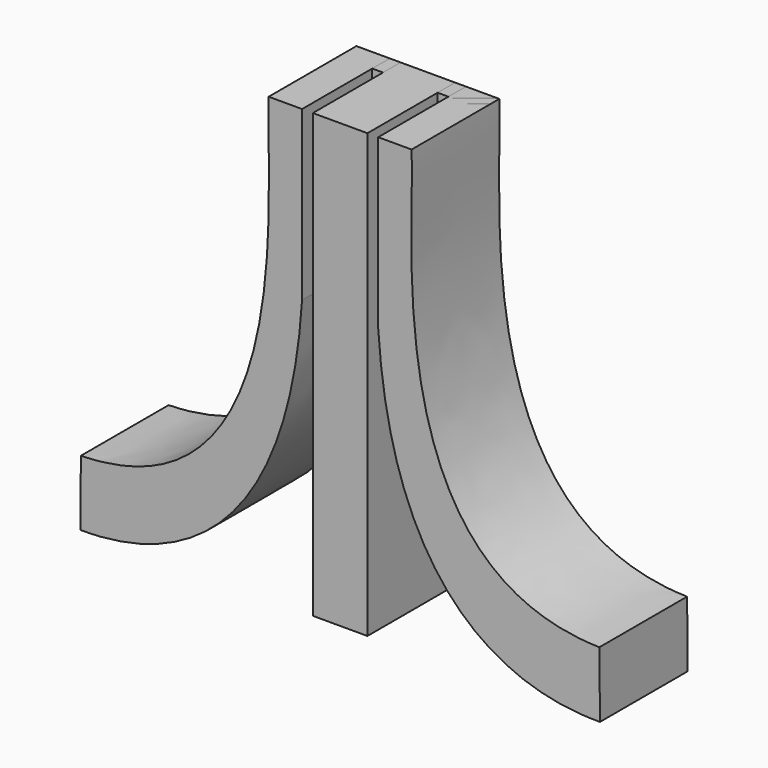
from build123d import *

# Parameters (mm, degrees)
F2_DEPTH = 10
F3_W     = 12.649741
F3_H     = 10.821469
F4_DEPTH = 2


with BuildPart() as f2:
    # F1 (on Front) → F2 (new body)
    with BuildSketch(Plane.XZ):
        with BuildLine():
            Line((-3.471778, 61.480351), (-6.517444, 61.480351))
            add(Edge.make_bspline(
                [(-6.517444, 61.480351), (-6.890875, 54.721402), (-3.318327, 27.531832), (-23.638815, 27.092563)],
                knots=[0, 0, 0, 0, 38.414337, 38.414337, 38.414337, 38.414337], degree=3))
            Line((-23.638815, 27.092563), (-23.696268, 21.117225))
            add(Edge.make_bspline(
                [(-3.471778, 46.144499), (-4.824824, 25.064949), (-15.800724, 21.032378), (-23.696268, 21.117225)],
                knots=[0, 0, 0, 0, 32.177545, 32.177545, 32.177545, 32.177545], degree=3))
            Line((-3.471778, 46.144499), (-3.471778, 61.480351))
        make_face()
        Polygon((2.489035, 61.480351), (0, 61.480351), (-2.489035, 61.480351), (-2.489035, 21.117225), (0, 21.117225), (2.489035, 21.117225), align=None)
        with BuildLine():
            Line((6.517444, 61.480351), (3.471778, 61.480351))
            Line((3.471778, 61.480351), (3.471778, 46.144499))
            add(Edge.make_bspline(
                [(3.471778, 46.144499), (4.824824, 25.064949), (15.800724, 21.032378), (23.696268, 21.117225)],
                knots=[0, 0, 0, 0, 32.177545, 32.177545, 32.177545, 32.177545], degree=3))
            Line((23.696268, 21.117225), (23.638815, 27.092563))
            add(Edge.make_bspline(
                [(6.517444, 61.480351), (6.890875, 54.721402), (3.318327, 27.531832), (23.638815, 27.092563)],
                knots=[0, 0, 0, 0, 38.414337, 38.414337, 38.414337, 38.414337], degree=3))
        make_face()
    extrude(amount=F2_DEPTH)


with BuildPart() as f4:
    # F3 (on Front) → F4 (new body)
    with BuildSketch(Plane.XZ):
        with Locations((0.048461, 56.069616)):
            Rectangle(F3_W, F3_H)
    extrude(amount=F4_DEPTH)


solid = Compound([f2.part, f4.part])
